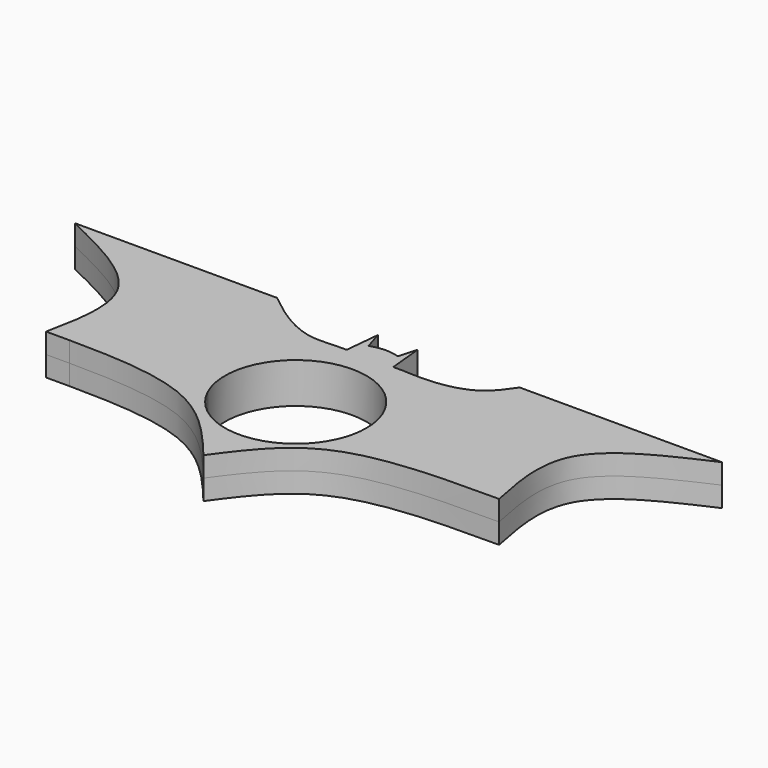
from build123d import *

# Parameters (mm, degrees)
F1_DEPTH = 3.175
F2_DEPTH = 3.175
F3_DEPTH = 3.175


with BuildPart() as f1:
    # F0 (on Top) → F1 (new body, symmetric)
    with BuildSketch(Plane.XY):
        with BuildLine():
            Line((3.5574508365, 14.6957142279), (3.0195119325, 20.1385710388))
            Line((3.0195119325, 20.1385710388), (2.2332931403, 17.2757264227))
            ThreePointArc((2.2332931403, 17.2757264227), (-0.0493719254, 17.6066470309), (-2.3184989113, 17.192967236))
            Line((-2.3184989113, 17.192967236), (-3.2288574148, 20.1385710388))
            Line((-3.2288574148, 20.1385710388), (-3.7667965516, 14.6957142279))
            Line((-3.7667965516, 14.6957142279), (0, 14.6957142279))
            Line((0, 14.6957142279), (3.5574508365, 14.6957142279))
        make_face()
    extrude(amount=F1_DEPTH, both=True)

    # F0 (on Top) → F2 (join, symmetric)
    with BuildSketch(Plane.XY):
        with BuildLine():
            ThreePointArc((-10.1419678164, -4.5418217778), (-2.3221798908, 10.8671586353), (11.1125, 0))
            ThreePointArc((11.1125, 0), (10.8671586353, -2.3221798908), (10.1419678164, -4.5418217778))
            Line((10.1419678164, -4.5418217778), (35.56, -4.5418217778))
            add(Edge.make_bspline(
                [(35.56, -4.5418217778), (34.5022433012, 0.685898413), (32.2510367822, 11.8119709643), (44.3734498201, 17.2537028886), (50.8, 20.1385710388)],
                knots=[0, 0, 0, 0, 0.4698621339, 1, 1, 1, 1], degree=3))
            Line((50.8, 20.1385710388), (19.0499983728, 20.1385710388))
            add(Edge.make_bspline(
                [(19.0499983728, 20.1385710388), (18.0895831514, 18.7411490827), (16.0901457627, 15.8319306064), (10.0037733963, 14.4304926081), (6.6733221038, 14.6098891024), (5.08, 14.6957142279)],
                knots=[0, 0, 0, 0, 0.3252948954, 0.6772141484, 1, 1, 1, 1], degree=3))
            Line((5.08, 14.6957142279), (3.5574508365, 14.6957142279))
            Line((3.5574508365, 14.6957142279), (0, 14.6957142279))
            Line((0, 14.6957142279), (-3.7667965516, 14.6957142279))
            Line((-3.7667965516, 14.6957142279), (-5.08, 14.6957142279))
            add(Edge.make_bspline(
                [(-19.0500002354, 20.1385710388), (-17.4553554852, 18.8712979526), (-14.3743253141, 16.4419723526), (-9.3515014369, 14.268160703), (-6.4539154458, 14.6957142279), (-5.08, 14.6957142279)],
                knots=[0, 0, 0, 0, 0.3618398429, 0.6993072509, 1, 1, 1, 1], degree=3))
            Line((-19.0500002354, 20.1385710388), (-50.8, 20.1385710388))
            add(Edge.make_bspline(
                [(-35.56, -4.5418217778), (-34.540003535, 0.4730892703), (-32.3415476577, 11.2820097384), (-44.3584594123, 17.0478515123), (-50.8, 20.1385710388)],
                knots=[0, 0, 0, 0, 0.4639603985, 1, 1, 1, 1], degree=3))
            add(Edge.make_bspline(
                [(-35.56, -4.5418217778), (-34.3214025644, -4.538991022), (-33.0828051288, -4.5361602663), (-31.8513481835, -4.5418217778)],
                knots=[0, 0, 0, 0, 0.0789565916, 0.0789565916, 0.0789565916, 0.0789565916], degree=3))
            Line((-31.8513481835, -4.5418217778), (-10.1419678164, -4.5418217778))
        make_face()
    extrude(amount=F2_DEPTH, both=True)

    # F0 (on Top) → F3 (join, symmetric)
    with BuildSketch(Plane.XY):
        with BuildLine():
            ThreePointArc((10.1419678164, -4.5418217778), (0, -11.1125), (-10.1419678164, -4.5418217778))
            Line((-10.1419678164, -4.5418217778), (-31.8513481835, -4.5418217778))
            add(Edge.make_bspline(
                [(-31.8513481835, -4.5418217778), (-24.5851128605, -4.5752276353), (-10.7114219287, -5.2257985904), (-3.5426450812, -13.8506010071), (0, -18.1127805263)],
                knots=[0.0789565916, 0.0789565916, 0.0789565916, 0.0789565916, 0.5448414744, 1, 1, 1, 1], degree=3))
            add(Edge.make_bspline(
                [(35.56, -4.5418217778), (26.3068413271, -4.5617834301), (9.8417595326, -4.5973032185), (2.9977614729, -13.9960189831), (0, -18.1127805263)],
                knots=[0, 0, 0, 0, 0.5619868026, 1, 1, 1, 1], degree=3))
            Line((35.56, -4.5418217778), (10.1419678164, -4.5418217778))
        make_face()
    extrude(amount=F3_DEPTH, both=True)


solid = f1.part
